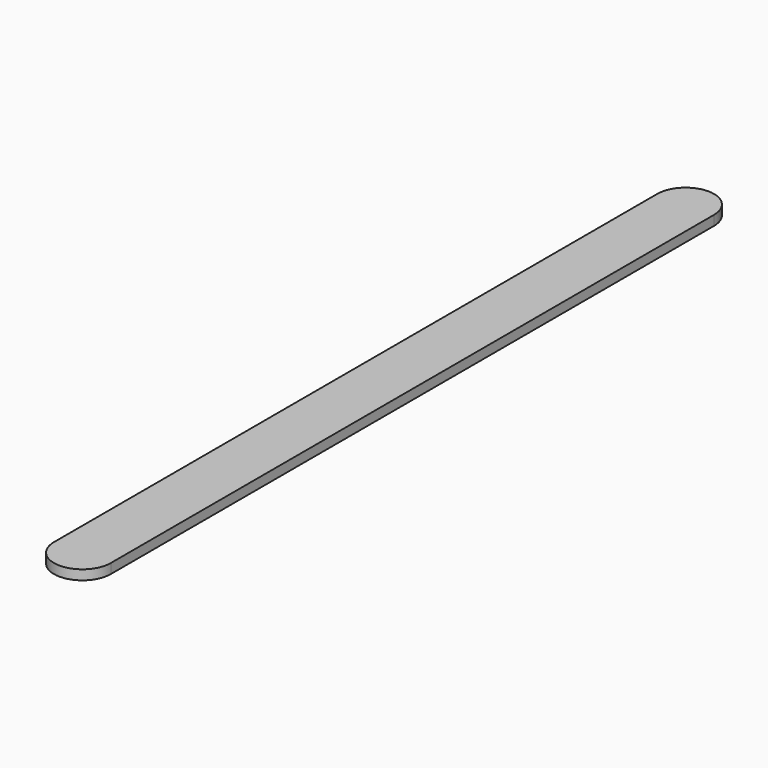
from build123d import *

# Parameters (mm, degrees)
EXTRUDE_DEPTH = 1.2


with BuildPart() as part:
    # Sketch → Extrude (new body)
    with BuildSketch(Plane.XY):
        with BuildLine():
            Line((20.203487, 129.881155), (20.203487, 36.881155))
            ThreePointArc((13.203487, 36.881155), (16.703487, 33.381155), (20.203487, 36.881155))
            Line((13.203487, 36.881155), (13.203487, 129.881155))
            ThreePointArc((20.203487, 129.881155), (16.703487, 133.381155), (13.203487, 129.881155))
        make_face()
    extrude(amount=EXTRUDE_DEPTH)


solid = part.part
